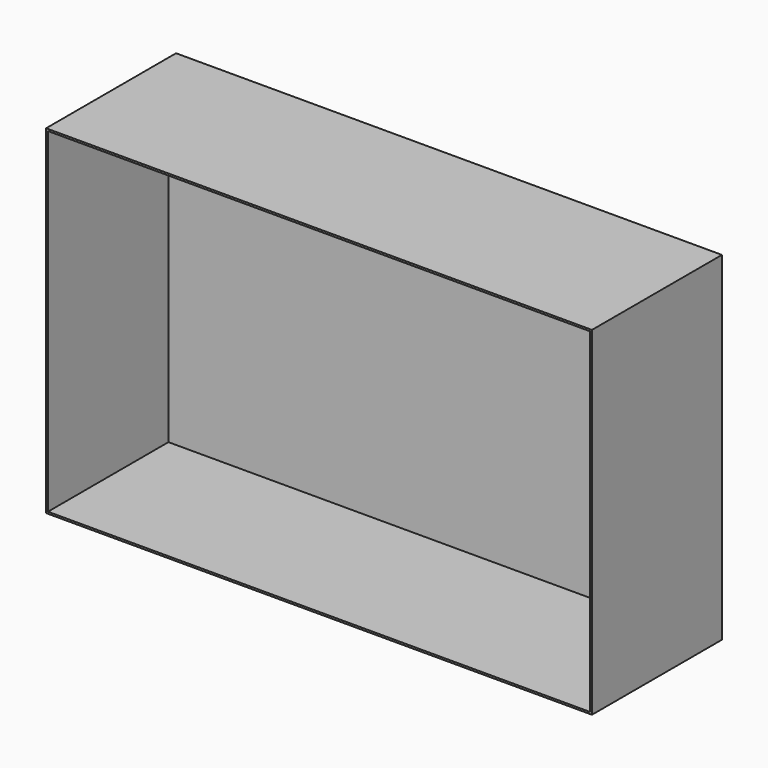
from build123d import *

# Parameters (mm, degrees)
F0_W     = 736.6
F0_H     = 457.2
F2_DEPTH = 219.202
F3_T     = -2.54
F1_W     = 736.6
F1_H     = 457.2
F4_DEPTH = 16.002


with BuildPart() as f2:
    # F0 (on Front) → F2 (new body)
    with BuildSketch(Plane.XZ):
        with Locations((368.3, 228.6)):
            Rectangle(F0_W, F0_H)
    extrude(amount=F2_DEPTH)

    # F3
    f3_openings = [f2.faces().sort_by_distance(p)[0] for p in [
        (368.3, -219.202, 228.6),
    ]]
    offset(amount=F3_T, openings=f3_openings)

    # F1 (on Front) → F4 (join)
    with BuildSketch(Plane.XZ):
        with Locations((368.3, 228.6)):
            Rectangle(F1_W, F1_H)
    extrude(amount=F4_DEPTH)


solid = f2.part
